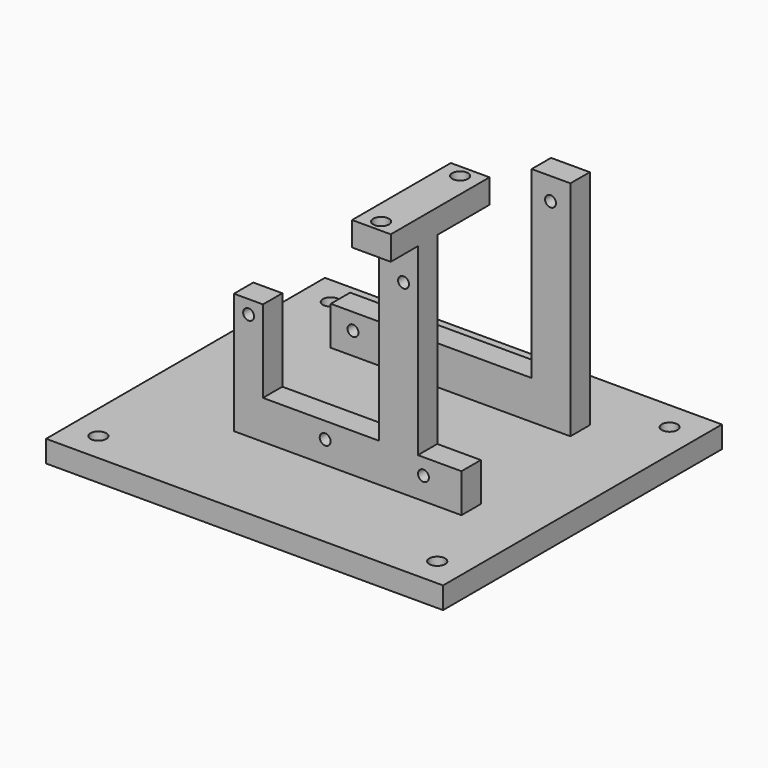
from build123d import *

# Parameters (mm, degrees)
EXTRUDE031_DEPTH = 5
SKETCH021_R      = 1.125
EXTRUDE005_DEPTH = 5
SKETCH020_W      = 8
SKETCH020_H      = 25.5
SKETCH020_R      = 1.625
EXTRUDE004_DEPTH = 5
SKETCH019_R      = 1.125
EXTRUDE003_DEPTH = 5
SKETCH093_W      = 82
SKETCH093_H      = 72
SKETCH093_R      = 1.625
EXTRUDE030_DEPTH = 4.5


with BuildPart() as obj1:
    # Sketch094 → Extrude031 (new body)
    with BuildSketch(Plane.XY):
        with BuildLine():
            ThreePointArc((-7.5, -283.5), (-12.5, -288.5), (-7.5, -293.5))
            Line((-7.5, -293.5), (0, -293.5))
            ThreePointArc((0, -293.5), (5, -288.5), (0, -283.5))
            Line((0, -283.5), (-7.5, -283.5))
        make_face()
    extrude(amount=EXTRUDE031_DEPTH)


with BuildPart() as obj1_1:
    # Extrude031 placement: moved
    add(obj1.part.moved(Location((0, 0, -309.75))))


with BuildPart() as obj2:
    # Sketch021 (on Extrude) → Extrude005 (new body)
    with BuildSketch(Plane.XZ):
        Polygon((-25, -309), (-25, -301), (16.5, -301), (16.5, -263), (24.5, -263), (24.5, -309), align=None)
        with Locations((-20.4, -304.4)):
            Circle(SKETCH021_R, mode=Mode.SUBTRACT)
        with Locations((20.4, -267.6)):
            Circle(SKETCH021_R, mode=Mode.SUBTRACT)
    extrude(amount=EXTRUDE005_DEPTH)


with BuildPart() as obj2_1:
    # Extrude005 placement: moved
    add(obj2.part.moved(Location((0, -262.5, 0))))


with BuildPart() as gpshold:
    # Sketch020 → Extrude004 (new body)
    with BuildSketch(Plane.XY.offset(-263)):
        with Locations((15, -294.25)):
            Rectangle(SKETCH020_W, SKETCH020_H)
        with Locations((15, -284.1)):
            Circle(SKETCH020_R, mode=Mode.SUBTRACT)
        with Locations((15, -304.5)):
            Circle(SKETCH020_R, mode=Mode.SUBTRACT)
    extrude(amount=EXTRUDE004_DEPTH)


with BuildPart() as obj3:
    # Sketch019 → Extrude003 (new body)
    with BuildSketch(Plane.XZ.offset(295)):
        Polygon((28, -309), (28, -301), (19, -301), (19, -263), (11, -263), (11, -301), (-13, -301), (-13, -284), (-19, -284), (-19, -309), align=None)
        with Locations((-15.96, -286.8)):
            Circle(SKETCH019_R, mode=Mode.SUBTRACT)
        with Locations((-0.15, -304.37)):
            Circle(SKETCH019_R, mode=Mode.SUBTRACT)
        with Locations((20.15, -304.37)):
            Circle(SKETCH019_R, mode=Mode.SUBTRACT)
        with Locations((16.04, -270.55)):
            Circle(SKETCH019_R, mode=Mode.SUBTRACT)
    extrude(amount=EXTRUDE003_DEPTH)


with BuildPart() as base012:
    # Sketch093 → Extrude030 (new body)
    with BuildSketch(Plane.XY):
        with Locations((0, -285)):
            Rectangle(SKETCH093_W, SKETCH093_H)
        with Locations((-35, -315)):
            Circle(SKETCH093_R, mode=Mode.SUBTRACT)
        with Locations((35, -315)):
            Circle(SKETCH093_R, mode=Mode.SUBTRACT)
        with Locations((35, -255)):
            Circle(SKETCH093_R, mode=Mode.SUBTRACT)
        with Locations((-35, -255)):
            Circle(SKETCH093_R, mode=Mode.SUBTRACT)
        with BuildLine():
            ThreePointArc((-3.658125, -285.3), (-12.5, -288.5), (-3.658125, -291.7))
            Line((-3.658125, -291.7), (-0.399218, -291.675))
            ThreePointArc((-0.399218, -291.675), (3.2, -288.5), (-0.399218, -285.325))
            Line((-0.399218, -285.325), (-3.658125, -285.3))
        make_face(mode=Mode.SUBTRACT)
    extrude(amount=EXTRUDE030_DEPTH)


with BuildPart() as base012_1:
    # Extrude030 placement: moved
    add(base012.part.moved(Location((0, 0, -313.5))))

    # Fusion078: union obj2, gpsHold, obj3
    add(obj2_1.part)
    add(gpshold.part)
    add(obj3.part)

    # Cut035: cut obj1
    add(obj1_1.part, mode=Mode.SUBTRACT)


solid = base012_1.part
